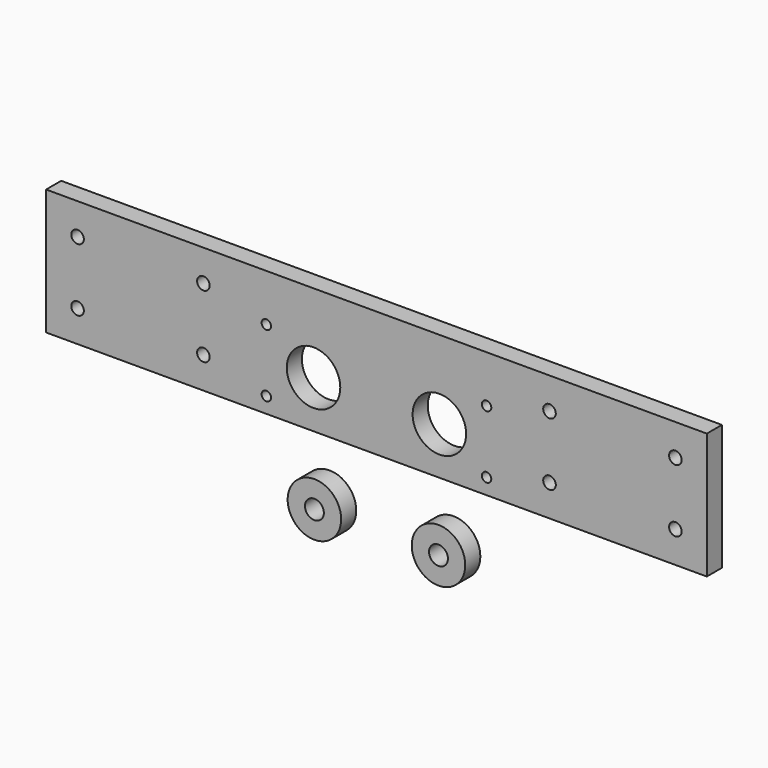
from build123d import *

# Parameters (mm, degrees)
F0_W     = 210
F0_H     = 40
F0_R     = 1.5
F0_R_2   = 2
F0_R_3   = 8.5
F1_DEPTH = 6
F2_R     = 8.5
F2_R_2   = 3
F3_DEPTH = 6


with BuildPart() as f1:
    # F0 (on Front) → F1 (new body)
    with BuildSketch(Plane.XZ):
        Rectangle(F0_W, F0_H)
        with Locations((-35, -15)):
            Circle(F0_R, mode=Mode.SUBTRACT)
        with Locations((-95, -10)):
            Circle(F0_R_2, mode=Mode.SUBTRACT)
        with Locations((-55, -10)):
            Circle(F0_R_2, mode=Mode.SUBTRACT)
        with Locations((-20, -5)):
            Circle(F0_R_3, mode=Mode.SUBTRACT)
        with Locations((35, -15)):
            Circle(F0_R, mode=Mode.SUBTRACT)
        with Locations((20, -5)):
            Circle(F0_R_3, mode=Mode.SUBTRACT)
        with Locations((55, -10)):
            Circle(F0_R_2, mode=Mode.SUBTRACT)
        with Locations((95, -10)):
            Circle(F0_R_2, mode=Mode.SUBTRACT)
        with Locations((-35, 5)):
            Circle(F0_R, mode=Mode.SUBTRACT)
        with Locations((-95, 10)):
            Circle(F0_R_2, mode=Mode.SUBTRACT)
        with Locations((-55, 10)):
            Circle(F0_R_2, mode=Mode.SUBTRACT)
        with Locations((35, 5)):
            Circle(F0_R, mode=Mode.SUBTRACT)
        with Locations((55, 10)):
            Circle(F0_R_2, mode=Mode.SUBTRACT)
        with Locations((95, 10)):
            Circle(F0_R_2, mode=Mode.SUBTRACT)
    extrude(amount=F1_DEPTH)


with BuildPart() as f3:
    # F2 (on Front) → F3 (new body)
    with BuildSketch(Plane.XZ):
        with Locations((-19.718695, -41.777257)):
            Circle(F2_R)
        with Locations((-19.718695, -41.777257)):
            Circle(F2_R_2, mode=Mode.SUBTRACT)
        with Locations((19.718695, -41.777257)):
            Circle(F2_R)
        with Locations((19.718695, -41.777257)):
            Circle(F2_R_2, mode=Mode.SUBTRACT)
    extrude(amount=F3_DEPTH)


solid = Compound([f1.part, f3.part])
